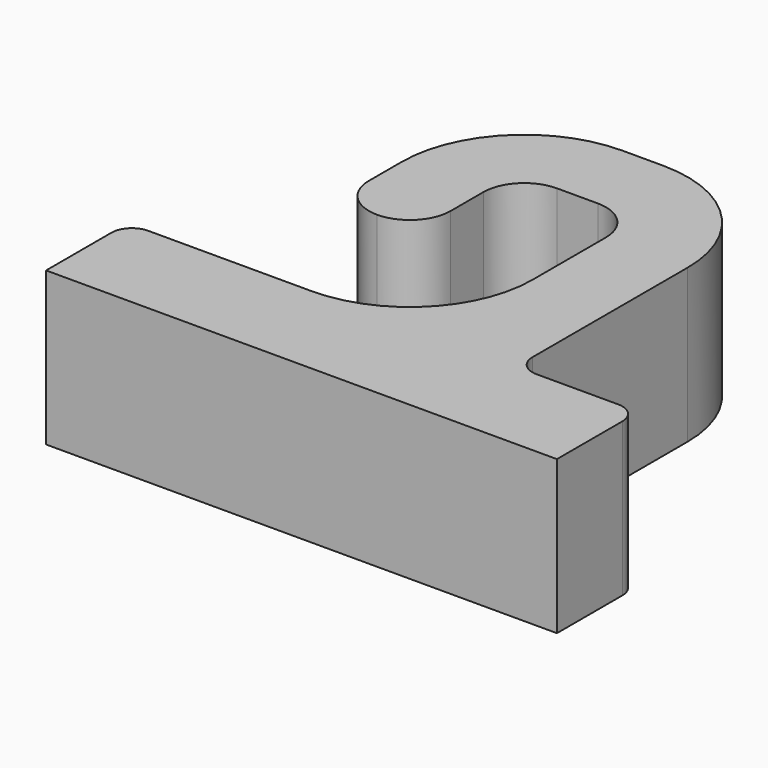
from build123d import *

# Parameters (mm, degrees)
F1_DEPTH = 15


with BuildPart() as f1:
    # F0 (on Top) → F1 (new body)
    with BuildSketch(Plane.XY):
        with BuildLine():
            Line((-28, 8), (-28, 0))
            Line((-28, 0), (22, 0))
            Line((22, 0), (22, 8))
            ThreePointArc((22, 8), (21.414214, 9.414214), (20, 10))
            Line((20, 10), (12, 10))
            ThreePointArc((12, 10), (10.585786, 10.585786), (10, 12))
            Line((10, 12), (10, 31))
            ThreePointArc((10, 31), (6.485281, 39.485281), (-2, 43))
            Line((-2, 43), (-3.051823, 43))
            Line((-3.051823, 43), (-6, 43))
            ThreePointArc((-6, 43), (-14.485281, 39.485281), (-18, 31))
            Line((-18, 31), (-18, 27))
            ThreePointArc((-18, 27), (-16.828427, 24.171573), (-14, 23))
            ThreePointArc((-14, 23), (-11.171573, 24.171573), (-10, 27))
            Line((-10, 27), (-10, 31))
            ThreePointArc((-10, 31), (-8.828427, 33.828427), (-6, 35))
            Line((-6, 35), (-2, 35))
            ThreePointArc((-2, 35), (0.828427, 33.828427), (2, 31))
            Line((2, 31), (2, 22))
            ThreePointArc((2, 22), (-1.514719, 13.514719), (-10, 10))
            Line((-10, 10), (-26, 10))
            ThreePointArc((-26, 10), (-27.414214, 9.414214), (-28, 8))
        make_face()
    extrude(amount=F1_DEPTH)


solid = f1.part
